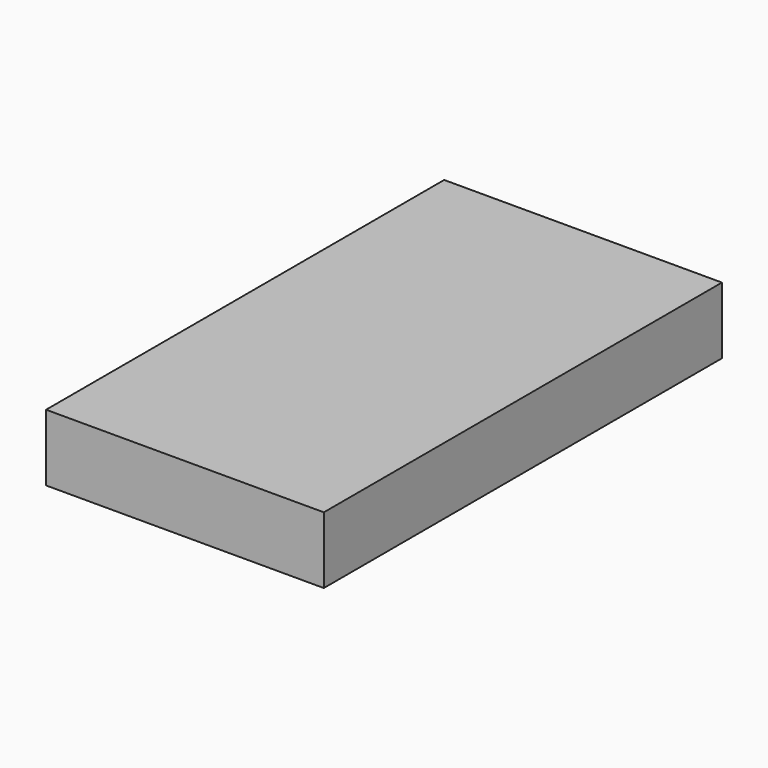
from build123d import *

# Parameters (mm, degrees)
F0_W     = 23.45
F0_H     = 42.01
F1_DEPTH = 5.63
F2_T     = -1
F3_W     = 4
F3_H     = 6.987
F4_DEPTH = 2.2
F5_W     = 4
F5_H     = 1.456921
F6_DEPTH = 9


with BuildPart() as f1:
    # F0 (on Top) → F1 (new body)
    with BuildSketch(Plane.XY):
        Rectangle(F0_W, F0_H)
    extrude(amount=F1_DEPTH)

    # F2
    f2_openings = [f1.faces().sort_by_distance(p)[0] for p in [
        (0, 21.005, 2.815),
    ]]
    offset(amount=F2_T, openings=f2_openings)

    # F3 (on face) → F4 (join)
    with BuildSketch(Plane(origin=(0, 21.005, 0), x_dir=(-1, 0, 0), z_dir=(0, 1, 0))):
        with Locations((-0.08324, -3.4935)):
            Rectangle(F3_W, F3_H)
    extrude(amount=-F4_DEPTH)

    # F5 (on face) → F6 (join)
    with BuildSketch(Plane.XZ.offset(-18.805)):
        with Locations((0.08324, -6.258539)):
            Rectangle(F5_W, F5_H)
    extrude(amount=F6_DEPTH)


solid = f1.part
